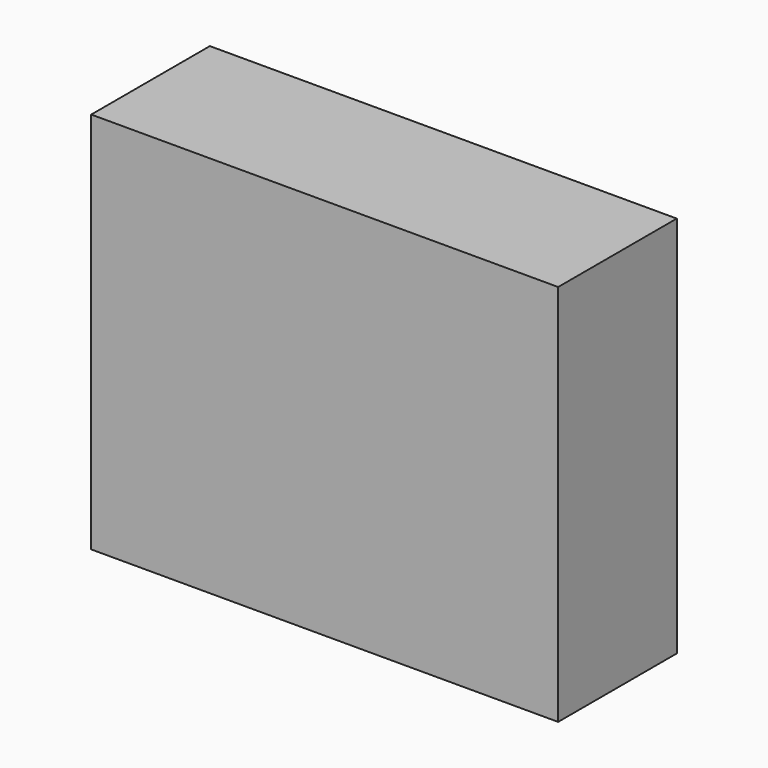
from build123d import *

# Parameters (mm, degrees)
F0_W     = 200
F0_H     = 164
F1_DEPTH = 63.5
F2_DEPTH = 62.5


with BuildPart() as f1:
    # F0 (on Front) → F1 (new body)
    with BuildSketch(Plane.XZ):
        Rectangle(F0_W, F0_H)
    extrude(amount=F1_DEPTH)

    # F0 (on Front) → F2 (join)
    with BuildSketch(Plane.XZ):
        Rectangle(F0_W, F0_H)
    extrude(amount=F2_DEPTH)


solid = f1.part
